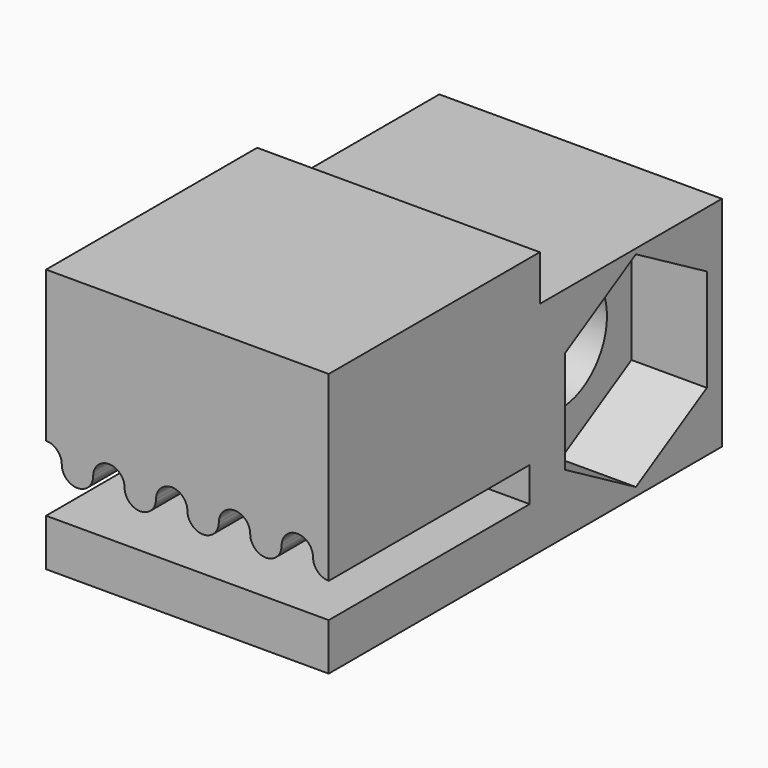
from build123d import *

# Parameters (mm, degrees)
SKETCH007_R     = 1.85
PAD003_DEPTH    = 9
POCKET003_DEPTH = 8
POCKET004_DEPTH = 2.4


with BuildPart() as part:
    # Sketch007 (on Face1 of ReferencePolarPattern) → Pad003 (new body)
    with BuildSketch(Plane.YZ.offset(-13.630613)):
        Polygon((-7.3, 19.312846), (1.1, 19.312846), (1.1, 17.862846), (8.35, 17.862846), (8.35, 10.912846), (-7.3, 10.912846), align=None)
        with Locations((4.925, 14.437846)):
            Circle(SKETCH007_R, mode=Mode.SUBTRACT)
    extrude(amount=PAD003_DEPTH)

    # Sketch008 (on Face6 of Pad003) → Pocket003 (cut)
    with BuildSketch(Plane(origin=(0, -7.3, 0), x_dir=(0, 0, -1), z_dir=(0, -1, 0))):
        with BuildLine():
            ThreePointArc((-14.012846, -13.130613), (-13.512846, -12.630613), (-14.012846, -12.130613))
            ThreePointArc((-14.012846, -11.130613), (-14.512846, -11.630613), (-14.012846, -12.130613))
            ThreePointArc((-14.012846, -11.130613), (-13.512846, -10.630613), (-14.012846, -10.130613))
            ThreePointArc((-14.012846, -9.130613), (-14.512846, -9.630613), (-14.012846, -10.130613))
            ThreePointArc((-14.012846, -9.130613), (-13.512846, -8.630613), (-14.012846, -8.130613))
            ThreePointArc((-14.012846, -7.130613), (-14.512846, -7.630613), (-14.012846, -8.130613))
            ThreePointArc((-14.012846, -7.130613), (-13.512846, -6.630613), (-14.012846, -6.130613))
            ThreePointArc((-14.012846, -5.130613), (-14.512846, -5.630613), (-14.012846, -6.130613))
            ThreePointArc((-14.012846, -5.130613), (-13.6592926094, -4.9841663906), (-13.512846, -4.630613))
            Line((-12.412846, -4.630613), (-13.512846, -4.630613))
            Line((-12.412846, -13.630613), (-12.412846, -4.630613))
            Line((-14.512846, -13.630613), (-12.412846, -13.630613))
            ThreePointArc((-14.012846, -13.130613), (-14.3663993906, -13.2770596094), (-14.512846, -13.630613))
        make_face()
    extrude(amount=-POCKET003_DEPTH, mode=Mode.SUBTRACT)

    # Sketch009 (on Face5 of Pocket003) → Pocket004 (cut)
    with BuildSketch(Plane.YZ.offset(-4.630613)):
        Polygon((7.75, 12.8068314895), (7.75, 16.0688605105), (4.925, 17.6998750209), (2.1, 16.0688605105), (2.1, 12.8068314895), (4.925, 11.1758169791), align=None)
    extrude(amount=-POCKET004_DEPTH, mode=Mode.SUBTRACT)


with BuildPart() as part_1:
    # Body001 placement: moved
    add(part.part.moved(Location((5, 0, 0))))


solid = part_1.part
